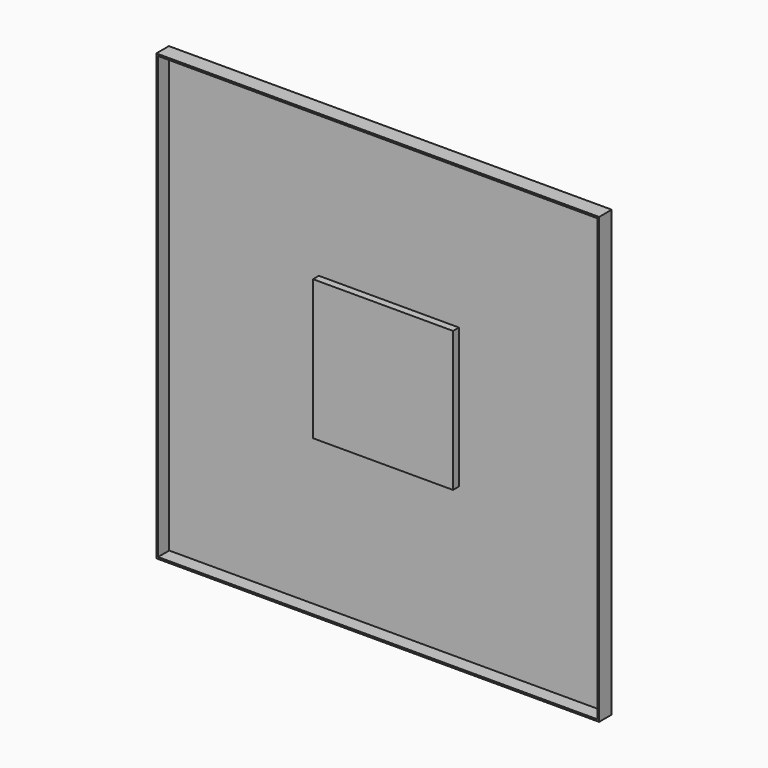
from build123d import *

# Parameters (mm, degrees)
F0_W     = 253
F0_H     = 254
F1_DEPTH = 1
F2_W     = 253
F2_H     = 254
F2_W_2   = 251
F2_H_2   = 252
F3_DEPTH = 8
F4_W     = 80
F4_H     = 80
F5_DEPTH = 4.2


with BuildPart() as f1:
    # F0 (on Front) → F1 (new body)
    with BuildSketch(Plane.XZ):
        Rectangle(F0_W, F0_H)
    extrude(amount=F1_DEPTH)

    # F2 (on face) → F3 (join)
    with BuildSketch(Plane.XZ.offset(1)):
        Rectangle(F2_W, F2_H)
        Rectangle(F2_W_2, F2_H_2, mode=Mode.SUBTRACT)
    extrude(amount=F3_DEPTH)

    # F4 (on face) → F5 (join)
    with BuildSketch(Plane.XZ.offset(1)):
        Rectangle(F4_W, F4_H)
    extrude(amount=F5_DEPTH)


solid = f1.part
